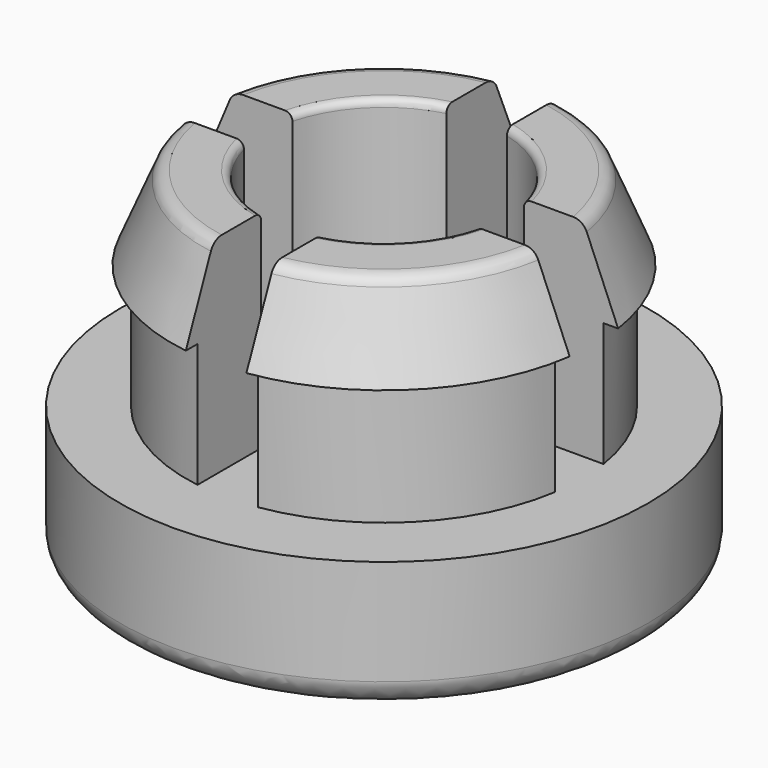
from build123d import *

# Parameters (mm, degrees)
F2_W     = 2.1
F2_H     = 6.45
F2_W_2   = 6.45
F2_H_2   = 2.1
F3_DEPTH = 7.2
F4_R     = 0.25
F5_R     = 0.5


with BuildPart() as f1:
    # F0 (on Front) → F1 (revolve)
    with BuildSketch(Plane.XZ):
        with BuildLine():
            Line((4.15, 12.2), (4.15, 0))
            Line((4.15, 0), (6.55, 0))
            add(Edge.make_bspline(
                [(6.55, 0), (7.5164148551, 0), (9.15, 0.4540091534), (9.15, 1.3436317709)],
                knots=[0, 0, 0, 0, 2.926661295, 2.926661295, 2.926661295, 2.926661295], degree=3))
            Line((9.15, 1.3436317709), (9.15, 5))
            Line((9.15, 5), (6.85, 5))
            Line((6.85, 5), (6.85, 9.3))
            Line((6.85, 9.3), (7.35, 9.3))
            Line((7.35, 9.3), (6.15, 12.2))
            Line((6.15, 12.2), (4.15, 12.2))
        make_face()
    revolve(axis=Axis((0, 0, 4.5666272921), (0, 0, 1)))

    # F2 (on face) → F3 (cut)
    with BuildSketch(Plane.XY.offset(12.2)):
        with Locations((0, 4.275)):
            Rectangle(F2_W, F2_H)
        with Locations((4.275, 0)):
            Rectangle(F2_W_2, F2_H_2)
        Rectangle(F2_W, F2_H_2)
        with Locations((0, -4.275)):
            Rectangle(F2_W, F2_H)
        with Locations((-4.275, 0)):
            Rectangle(F2_W_2, F2_H_2)
    extrude(amount=-F3_DEPTH, mode=Mode.SUBTRACT)

    # F4
    f4_edges = [f1.edges().sort_by_distance(p)[0] for p in [
        (-2.934493, -2.934493, 12.2),
        (-2.934493, 2.934493, 12.2),
        (2.934493, 2.934493, 12.2),
        (2.934493, -2.934493, 12.2),
    ]]
    fillet(f4_edges, radius=F4_R)

    # F5
    f5_edges = [f1.edges().sort_by_distance(p)[0] for p in [
        (4.348707, 4.348707, 12.2),
        (-4.348707, 4.348707, 12.2),
        (-4.348707, -4.348707, 12.2),
        (4.348707, -4.348707, 12.2),
    ]]
    fillet(f5_edges, radius=F5_R)


solid = f1.part
